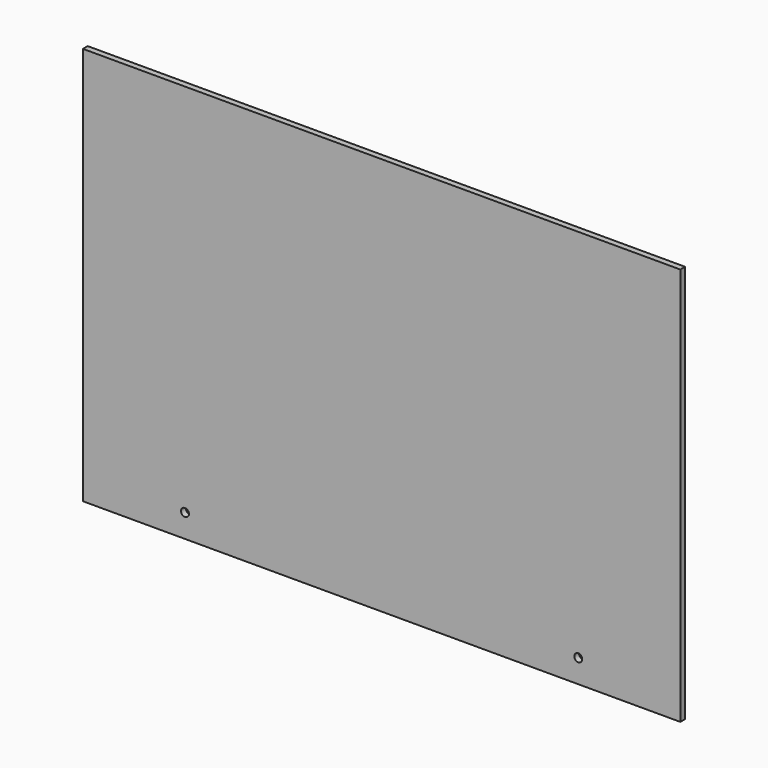
from build123d import *

# Parameters (mm, degrees)
F0_W     = 6
F0_H     = 400
F1_DEPTH = 300
F2_R     = 4
F3_DEPTH = 6.001


with BuildPart() as f1:
    # F0 (on Right) → F1 (new body, symmetric)
    with BuildSketch(Plane.YZ):
        Rectangle(F0_W, F0_H)
    extrude(amount=F1_DEPTH, both=True)

    # F2 (on face) → F3 (cut, through all)
    with BuildSketch(Plane.XZ.offset(3)):
        with Locations((-197.5, -176.6)):
            Circle(F2_R)
        with Locations((197.5, -176.6)):
            Circle(F2_R)
    extrude(amount=-F3_DEPTH, mode=Mode.SUBTRACT)


solid = f1.part
